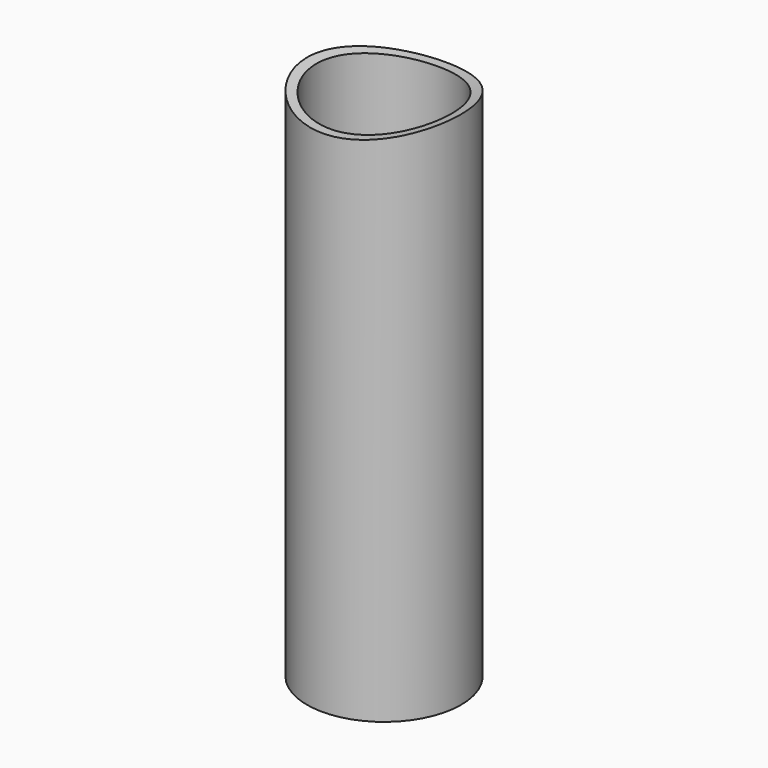
from build123d import *

# Parameters (mm, degrees)
F0_R          = 44.45
F0_R_2        = 39
F1_DEPTH      = 300
F3_DEPTH      = 44.451
F3_DEPTH_BACK = 44.451


with BuildPart() as f1:
    # F0 (on Top) → F1 (new body)
    with BuildSketch(Plane.XY):
        Circle(F0_R)
        Circle(F0_R_2, mode=Mode.SUBTRACT)
    extrude(amount=-F1_DEPTH)

    # F2 (on Front) → F3 (cut, two sides)
    with BuildSketch(Plane.XZ) as f3_sk:
        with BuildLine():
            ThreePointArc((167.5, 161.4944194082), (-101.5157007561, 294.7265945762), (-44.45, 0))
            Line((-44.45, 0), (0, 161.4944194082))
            Line((0, 161.4944194082), (44.45, 0))
            ThreePointArc((44.45, 0), (133.232175168, 59.9787186521), (167.5, 161.4944194082))
        make_face()
        with BuildLine():
            Line((0, 161.4944194082), (-44.45, 0))
            ThreePointArc((-44.45, 0), (0, -6.0055805918), (44.45, 0))
            Line((44.45, 0), (0, 161.4944194082))
        make_face()
    extrude(amount=-F3_DEPTH, mode=Mode.SUBTRACT)
    extrude(f3_sk.sketch, amount=F3_DEPTH_BACK, mode=Mode.SUBTRACT)


solid = f1.part
